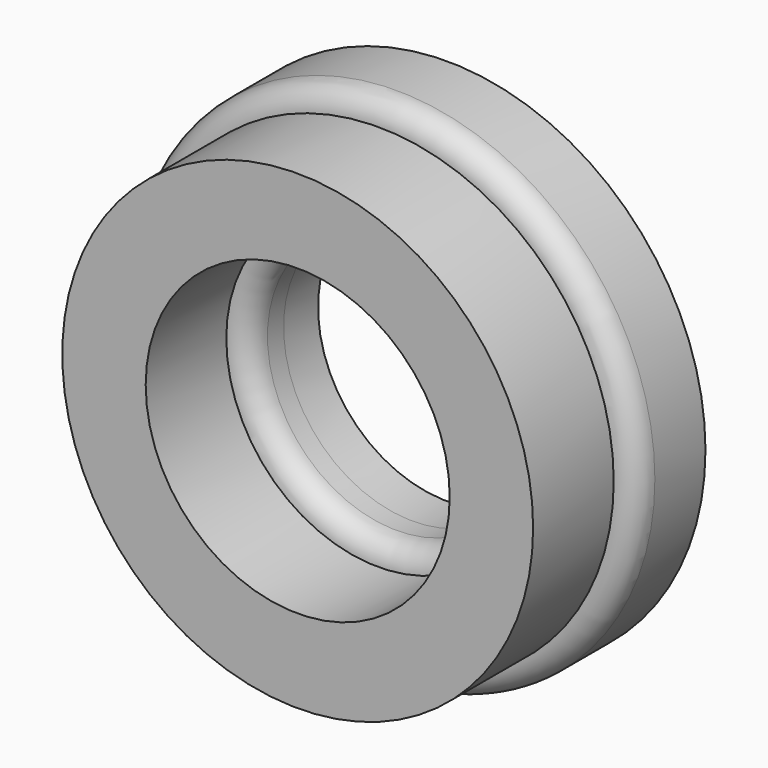
from build123d import *

# Parameters (mm, degrees)
F0_R          = 30
F0_R_2        = 15
F1_DEPTH      = 5
F1_DEPTH_BACK = 5
F2_R          = 2.6556349186
F3_DEPTH      = 11.7


with BuildPart() as f1:
    # F0 (on Front) → F1 (new body, two sides)
    with BuildSketch(Plane.XZ) as f1_sk:
        Circle(F0_R)
        Circle(F0_R_2, mode=Mode.SUBTRACT)
    extrude(amount=F1_DEPTH)
    extrude(f1_sk.sketch, amount=-F1_DEPTH_BACK)

    # F2
    f2_edges = [f1.edges().sort_by_distance(p)[0] for p in [
        (-30, -5, 0),
        (-15, -5, 0),
    ]]
    fillet(f2_edges, radius=F2_R)

    # F3 (add): a face of the model
    f3_faces = [f1.faces().sort_by_distance(p)[0] for p in [
        (-26.5709496423, -5, 0),
    ]]
    extrude(f3_faces, amount=F3_DEPTH)


solid = f1.part
